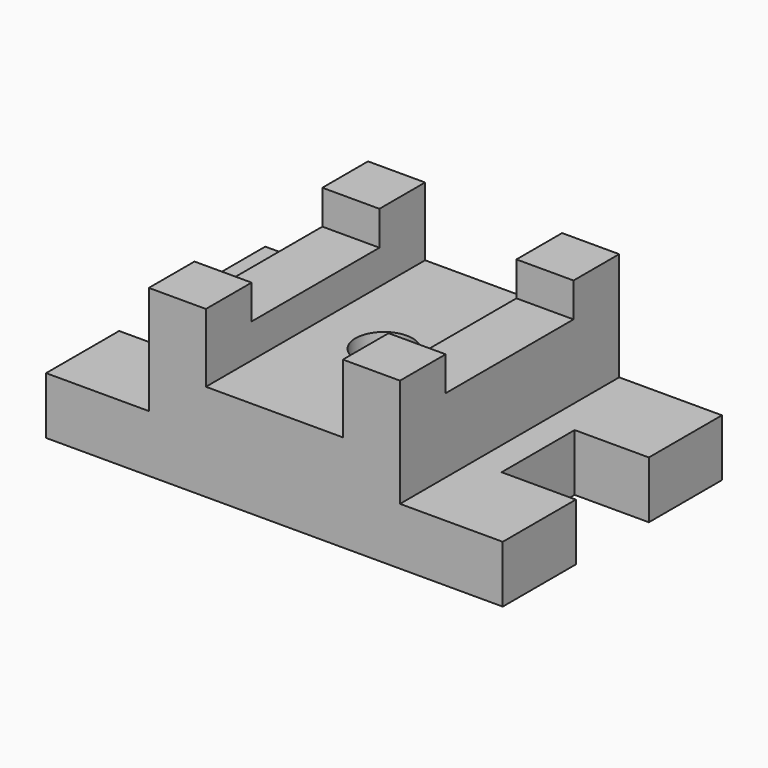
from build123d import *

# Parameters (mm, degrees)
F0_W     = 31.75
F0_H     = 31.75
F0_H_2   = 88.9
F1_DEPTH = 31.75
F2_DEPTH = 50.8
F3_DEPTH = 69.85
F4_DEPTH = 19.05
F5_DEPTH = 92.075
F6_DEPTH = 73.025
F7_DEPTH = 53.975


with BuildPart() as f1:
    # F0 (on Top) → F1 (new body)
    with BuildSketch(Plane.XY):
        Polygon((81.5241480306, -69.9467509985), (138.6741480306, -69.9467509985), (138.6741480306, -19.1467509985), (97.3991480306, -19.1467509985), (97.3991480306, 31.6532490015), (138.6741480306, 31.6532490015), (138.6741480306, 82.4532490015), (81.5241480306, 82.4532490015), (81.5241480306, 50.7032490015), (81.5241480306, -38.1967509985), align=None)
        with Locations((65.6491480306, 66.5782490015)):
            Rectangle(F0_W, F0_H)
        with Locations((65.6491480306, -54.0717509985)):
            Rectangle(F0_W, F0_H)
        with Locations((-42.3008519694, 66.5782490015)):
            Rectangle(F0_W, F0_H)
        Polygon((-115.3258519694, -69.9467509985), (-58.1758519694, -69.9467509985), (-58.1758519694, -38.1967509985), (-58.1758519694, 50.7032490015), (-58.1758519694, 82.4532490015), (-115.3258519694, 82.4532490015), (-115.3258519694, 31.6532490015), (-74.0508519694, 31.6532490015), (-74.0508519694, -19.1467509985), (-115.3258519694, -19.1467509985), align=None)
        with Locations((-42.3008519694, -54.0717509985)):
            Rectangle(F0_W, F0_H)
        with BuildLine():
            Line((-26.4258519694, -69.9467509985), (11.6741480306, -69.9467509985))
            Line((11.6741480306, -69.9467509985), (11.6741480306, -9.6217509985))
            ThreePointArc((11.6741480306, -9.6217509985), (-4.2008519694, 6.2532490015), (11.6741480306, 22.1282490015))
            Line((11.6741480306, 22.1282490015), (11.6741480306, 82.4532490015))
            Line((11.6741480306, 82.4532490015), (-26.4258519694, 82.4532490015))
            Line((-26.4258519694, 82.4532490015), (-26.4258519694, 50.7032490015))
            Line((-26.4258519694, 50.7032490015), (-26.4258519694, -38.1967509985))
            Line((-26.4258519694, -38.1967509985), (-26.4258519694, -69.9467509985))
        make_face()
        with Locations((-42.3008519694, 6.2532490015)):
            Rectangle(F0_W, F0_H_2)
        with Locations((65.6491480306, 6.2532490015)):
            Rectangle(F0_W, F0_H_2)
        with BuildLine():
            Line((11.6741480306, -69.9467509985), (49.7741480306, -69.9467509985))
            Line((49.7741480306, -69.9467509985), (49.7741480306, -38.1967509985))
            Line((49.7741480306, -38.1967509985), (49.7741480306, 50.7032490015))
            Line((49.7741480306, 50.7032490015), (49.7741480306, 82.4532490015))
            Line((49.7741480306, 82.4532490015), (11.6741480306, 82.4532490015))
            Line((11.6741480306, 82.4532490015), (11.6741480306, 22.1282490015))
            ThreePointArc((11.6741480306, 22.1282490015), (22.8994681819, 17.4785691528), (27.5491480306, 6.2532490015))
            ThreePointArc((27.5491480306, 6.2532490015), (22.8994681819, -4.9720711498), (11.6741480306, -9.6217509985))
            Line((11.6741480306, -9.6217509985), (11.6741480306, -69.9467509985))
        make_face()
    extrude(amount=F1_DEPTH)

    # F0 (on Top) → F2 (join)
    with BuildSketch(Plane.XY):
        with Locations((-42.3008519694, 6.2532490015)):
            Rectangle(F0_W, F0_H_2)
        with Locations((65.6491480306, 6.2532490015)):
            Rectangle(F0_W, F0_H_2)
    extrude(amount=F2_DEPTH)

    # F0 (on Top) → F3 (join)
    with BuildSketch(Plane.XY):
        with Locations((-42.3008519694, 66.5782490015)):
            Rectangle(F0_W, F0_H)
        with Locations((-42.3008519694, -54.0717509985)):
            Rectangle(F0_W, F0_H)
        with Locations((65.6491480306, -54.0717509985)):
            Rectangle(F0_W, F0_H)
        with Locations((65.6491480306, 66.5782490015)):
            Rectangle(F0_W, F0_H)
    extrude(amount=F3_DEPTH)

    # F4 (add): a face of the model
    f4_faces = [f1.faces().sort_by_distance(p)[0] for p in [
        (11.6741480306, -68.2428671996, 31.75),
    ]]
    extrude(f4_faces, amount=F4_DEPTH)

    # F0 (on Top) → F5 (join)
    with BuildSketch(Plane.XY):
        with Locations((-42.3008519694, 66.5782490015)):
            Rectangle(F0_W, F0_H)
        with Locations((-42.3008519694, -54.0717509985)):
            Rectangle(F0_W, F0_H)
        with Locations((65.6491480306, -54.0717509985)):
            Rectangle(F0_W, F0_H)
        with Locations((65.6491480306, 66.5782490015)):
            Rectangle(F0_W, F0_H)
    extrude(amount=F5_DEPTH)

    # F0 (on Top) → F6 (join)
    with BuildSketch(Plane.XY):
        with Locations((65.6491480306, 6.2532490015)):
            Rectangle(F0_W, F0_H_2)
        with Locations((-42.3008519694, 6.2532490015)):
            Rectangle(F0_W, F0_H_2)
    extrude(amount=F6_DEPTH)

    # F0 (on Top) → F7 (join)
    with BuildSketch(Plane.XY):
        with BuildLine():
            Line((-26.4258519694, -69.9467509985), (11.6741480306, -69.9467509985))
            Line((11.6741480306, -69.9467509985), (11.6741480306, -9.6217509985))
            ThreePointArc((11.6741480306, -9.6217509985), (-4.2008519694, 6.2532490015), (11.6741480306, 22.1282490015))
            Line((11.6741480306, 22.1282490015), (11.6741480306, 82.4532490015))
            Line((11.6741480306, 82.4532490015), (-26.4258519694, 82.4532490015))
            Line((-26.4258519694, 82.4532490015), (-26.4258519694, 50.7032490015))
            Line((-26.4258519694, 50.7032490015), (-26.4258519694, -38.1967509985))
            Line((-26.4258519694, -38.1967509985), (-26.4258519694, -69.9467509985))
        make_face()
        with BuildLine():
            Line((11.6741480306, -69.9467509985), (49.7741480306, -69.9467509985))
            Line((49.7741480306, -69.9467509985), (49.7741480306, -38.1967509985))
            Line((49.7741480306, -38.1967509985), (49.7741480306, 50.7032490015))
            Line((49.7741480306, 50.7032490015), (49.7741480306, 82.4532490015))
            Line((49.7741480306, 82.4532490015), (11.6741480306, 82.4532490015))
            Line((11.6741480306, 82.4532490015), (11.6741480306, 22.1282490015))
            ThreePointArc((11.6741480306, 22.1282490015), (22.8994681819, 17.4785691528), (27.5491480306, 6.2532490015))
            ThreePointArc((27.5491480306, 6.2532490015), (22.8994681819, -4.9720711498), (11.6741480306, -9.6217509985))
            Line((11.6741480306, -9.6217509985), (11.6741480306, -69.9467509985))
        make_face()
    extrude(amount=F7_DEPTH)


solid = f1.part
